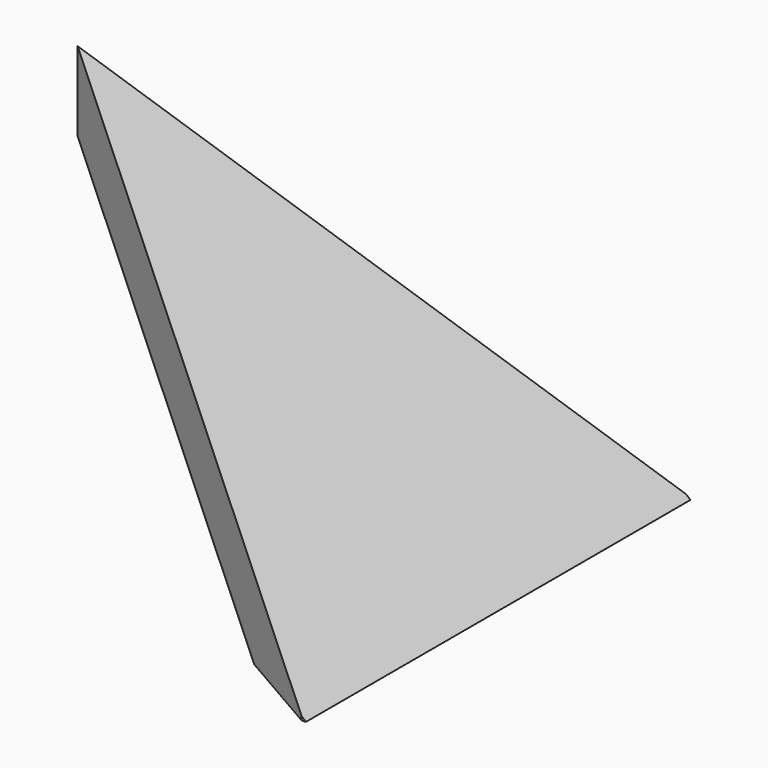
from build123d import *

# Parameters (mm, degrees)
F1_DEPTH = 33
F2_DEPTH = 44
F4_DEPTH = 66.001


with BuildPart() as f1:
    # F0 (on Front) → F1 (new body, symmetric)
    with BuildSketch(Plane.XZ):
        Polygon((77, 0), (0, 66), (0, 51.512144), (60.097502, 0), align=None)
    extrude(amount=F1_DEPTH, both=True)

    # F0 (on Front) → F2 (join, symmetric)
    with BuildSketch(Plane.XZ):
        Polygon((77, 0), (0, 66), (0, 51.512144), (60.097502, 0), align=None)
    extrude(amount=F2_DEPTH, both=True)

    # F3 (on Top) → F4 (intersect, through all)
    with BuildSketch(Plane.XY):
        Polygon((88.684835, -51.202213), (88.684835, 51.202213), (0, 0), align=None)
    extrude(amount=F4_DEPTH, mode=Mode.INTERSECT)


solid = f1.part
